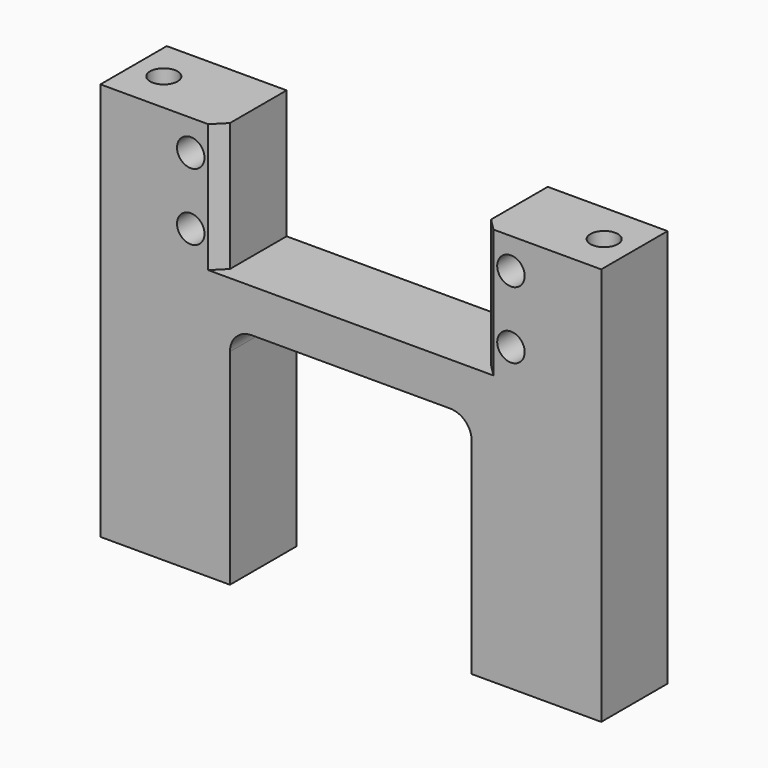
from build123d import *

# Parameters (mm, degrees)
F0_R     = 2.0193
F1_DEPTH = 6.096
F2_R     = 2.0193
F3_DEPTH = 19.05
F4_R     = 1.6002
F4_R_2   = 2.0193
F5_DEPTH = 12.7
F6_SIZE  = 1.778
F7_R     = 3.175


with BuildPart() as f1:
    # F0 (on Front) → F1 (new body, symmetric)
    with BuildSketch(Plane.XZ):
        Polygon((-36.83, 58.5978), (-36.83, 0), (-17.78, 0), (-17.78, 33.3502), (17.78, 33.3502), (17.78, 0), (36.83, 0), (36.83, 58.5978), (19.2024, 58.5978), (19.2024, 39.7002), (-19.2024, 39.7002), (-19.2024, 58.5978), align=None)
        with Locations((-23.5458, 44.2214)):
            Circle(F0_R, mode=Mode.SUBTRACT)
        with Locations((-23.5458, 54.0766)):
            Circle(F0_R, mode=Mode.SUBTRACT)
        with Locations((23.5458, 44.2214)):
            Circle(F0_R, mode=Mode.SUBTRACT)
        with Locations((23.5458, 54.0766)):
            Circle(F0_R, mode=Mode.SUBTRACT)
    extrude(amount=F1_DEPTH, both=True)

    # F2 (on face) → F3 (cut)
    with BuildSketch(Plane.XY.offset(58.5978)):
        with Locations((-32.385, 0)):
            Circle(F2_R)
        with Locations((32.385, 0)):
            Circle(F2_R)
    extrude(amount=-F3_DEPTH, mode=Mode.SUBTRACT)

    # F4 (on face) → F5 (cut)
    with BuildSketch(Plane(origin=(0, 0, 0), x_dir=(1, 0, 0), z_dir=(0, 0, -1))):
        with Locations((30.48, 0)):
            Circle(F4_R)
        with Locations((22.86, 0)):
            Circle(F4_R_2)
        with Locations((-22.86, 0)):
            Circle(F4_R_2)
        with Locations((-30.48, 0)):
            Circle(F4_R)
    extrude(amount=-F5_DEPTH, mode=Mode.SUBTRACT)

    # F6
    f6_edges = [f1.edges().sort_by_distance(p)[0] for p in [
        (-19.2024, -6.096, 49.149),
        (19.2024, -6.096, 49.149),
    ]]
    chamfer(f6_edges, length=F6_SIZE)

    # F7
    f7_edges = [f1.edges().sort_by_distance(p)[0] for p in [
        (-17.78, 0, 33.3502),
        (17.78, 0, 33.3502),
    ]]
    fillet(f7_edges, radius=F7_R)


solid = f1.part
